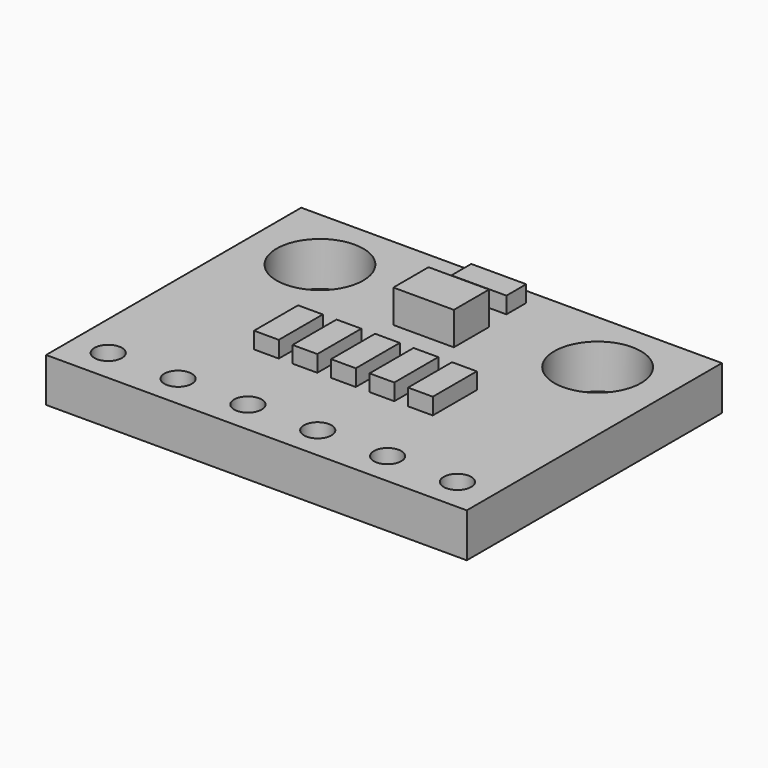
from build123d import *

# Parameters (mm, degrees)
SKETCH_W            = 15.3
SKETCH_H            = 11.6
SKETCH_R            = 1.575
PAD_DEPTH           = 1.6
SKETCH001_R         = 0.5
POCKET_DEPTH        = 0.001
POCKET_DEPTH_BACK   = 1.601
LINEARPATTERN_COUNT = 6
LINEARPATTERN_PITCH = 2.54
SKETCH004_W         = 2.2
SKETCH004_H         = 1.6
PAD002_DEPTH        = 1.2
SKETCH005_W         = 2
SKETCH005_H         = 0.9
PAD003_DEPTH        = 0.6
SKETCH008_W         = 0.9
SKETCH008_H         = 2
PAD006_DEPTH        = 0.6
SKETCH009_W         = 0.9
SKETCH009_H         = 2
PAD007_DEPTH        = 0.6
SKETCH010_W         = 0.9
SKETCH010_H         = 2
PAD008_DEPTH        = 0.6
SKETCH011_W         = 0.9
SKETCH011_H         = 2
PAD009_DEPTH        = 0.6
SKETCH012_W         = 0.9
SKETCH012_H         = 2
PAD010_DEPTH        = 0.6


with BuildPart() as pcb:
    # Sketch → Pad (new body)
    with BuildSketch(Plane.XY):
        Rectangle(SKETCH_W, SKETCH_H)
        with Locations((-5.05, 3.4)):
            Circle(SKETCH_R, mode=Mode.SUBTRACT)
        with Locations((5.05, 3.4)):
            Circle(SKETCH_R, mode=Mode.SUBTRACT)
    extrude(amount=PAD_DEPTH)

    # Sketch001 → Pocket (cut, two sides)
    with BuildSketch(Plane.XY) as pocket_sk:
        with Locations((-6.35, -4.6)):
            Circle(SKETCH001_R)
    pocket = extrude(amount=-POCKET_DEPTH, mode=Mode.SUBTRACT) + extrude(pocket_sk.sketch, amount=POCKET_DEPTH_BACK, mode=Mode.SUBTRACT)

    # LinearPattern: Pocket ×6
    with Locations(*[(i * LINEARPATTERN_PITCH, 0, 0) for i in range(1, LINEARPATTERN_COUNT)]):
        add(pocket, mode=Mode.SUBTRACT)


with BuildPart() as obj1:
    # Sketch004 → Pad002 (new body)
    with BuildSketch(Plane.XY.offset(1.6)):
        with Locations((0, 2.6)):
            Rectangle(SKETCH004_W, SKETCH004_H)
    extrude(amount=PAD002_DEPTH)


with BuildPart() as resistor1:
    # Sketch005 → Pad003 (new body)
    with BuildSketch(Plane.XY.offset(1.6)):
        with Locations((0, 4.765736)):
            Rectangle(SKETCH005_W, SKETCH005_H)
    extrude(amount=PAD003_DEPTH)


with BuildPart() as resistor2:
    # Sketch008 → Pad006 (new body)
    with BuildSketch(Plane.XY.offset(1.6)):
        with Locations((-2.8, -0.84528)):
            Rectangle(SKETCH008_W, SKETCH008_H)
    extrude(amount=PAD006_DEPTH)


with BuildPart() as resistor3:
    # Sketch009 → Pad007 (new body)
    with BuildSketch(Plane.XY.offset(1.6)):
        with Locations((-1.4, -0.84528)):
            Rectangle(SKETCH009_W, SKETCH009_H)
    extrude(amount=PAD007_DEPTH)


with BuildPart() as resistor4:
    # Sketch010 → Pad008 (new body)
    with BuildSketch(Plane.XY.offset(1.6)):
        with Locations((0, -0.84528)):
            Rectangle(SKETCH010_W, SKETCH010_H)
    extrude(amount=PAD008_DEPTH)


with BuildPart() as resistor5:
    # Sketch011 → Pad009 (new body)
    with BuildSketch(Plane.XY.offset(1.6)):
        with Locations((1.4, -0.84528)):
            Rectangle(SKETCH011_W, SKETCH011_H)
    extrude(amount=PAD009_DEPTH)


with BuildPart() as resistor6:
    # Sketch012 → Pad010 (new body)
    with BuildSketch(Plane.XY.offset(1.6)):
        with Locations((2.8, -0.84528)):
            Rectangle(SKETCH012_W, SKETCH012_H)
    extrude(amount=PAD010_DEPTH)


solid = Compound([pcb.part, obj1.part, resistor1.part, resistor2.part, resistor3.part, resistor4.part, resistor5.part, resistor6.part])
